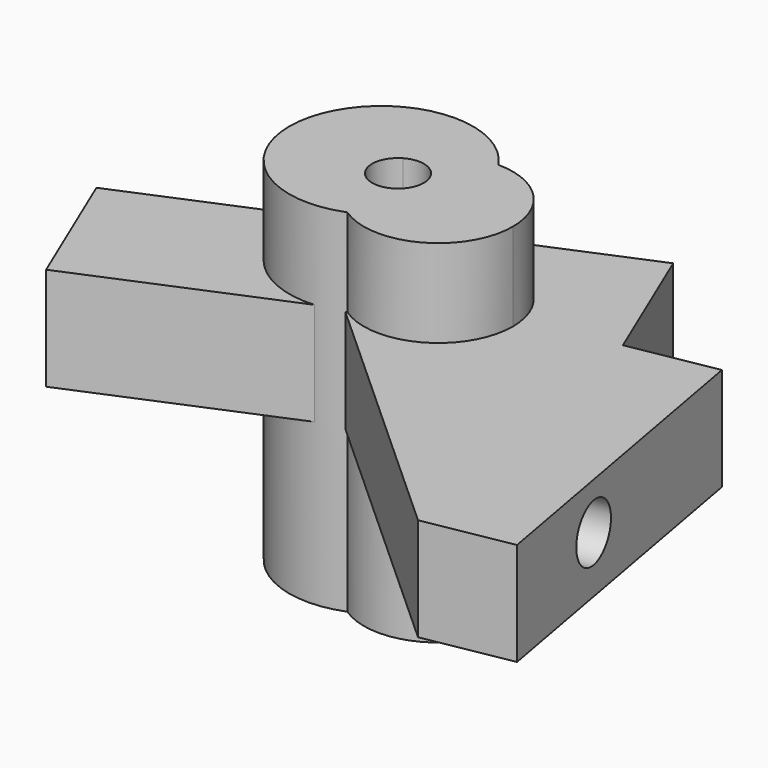
from build123d import *

# Parameters (mm, degrees)
F1_DEPTH  = 29.2991027236
F2_DEPTH  = 40.9627631307
F3_DEPTH  = 68.8303261995
F4_T      = -2.54
F5_W      = 95.6771153452
F5_H      = 29.2991027236
F5_R      = 8.1039957671
F6_DEPTH  = 25
F7_R      = 8.5249443269
F8_DEPTH  = 25
F10_DEPTH = 100


with BuildPart() as f1:
    # F0 (on Top) → F1 (new body)
    with BuildSketch(Plane.XY):
        Polygon((17.0515403152, -60.0674971938), (0, 34.0778976679), (-59.2823252082, 9.1290585697), align=None)
    extrude(amount=-F1_DEPTH)

    # F2 (add): a face of the model
    f2_faces = [f1.faces().sort_by_distance(p)[0] for p in [
        (-29.6411626041, 21.6034781188, -14.6495513618),
    ]]
    extrude(f2_faces, amount=F2_DEPTH)

    # F3 (add): a face of the model
    f3_faces = [f1.faces().sort_by_distance(p)[0] for p in [
        (-67.2269849041, 28.0068066647, -14.6495513618),
    ]]
    extrude(f3_faces, amount=F3_DEPTH)

    # F4
    f4_openings = [f1.faces().sort_by_distance(p)[0] for p in [
        (-130.668094, 1.307752, -14.649551),
    ]]
    offset(amount=F4_T, openings=f4_openings, kind=Kind.INTERSECTION)

    # F5 (on face) → F6 (join)
    with BuildSketch(Plane(origin=(5.9761205036, 1.0823902735, 0), x_dir=(-0.1782196323, 0.983990733, 0), z_dir=(0.983990733, 0.1782196323, 0))):
        with Locations((-14.3062221666, -14.6495513618)):
            Rectangle(F5_W, F5_H)
        with Locations((-26.3812504709, -13.2899768651)):
            Circle(F5_R, mode=Mode.SUBTRACT)
    extrude(amount=F6_DEPTH)

    # F7 (on face) → F8 (join)
    with BuildSketch(Plane.XY):
        with Locations((-45.2117063105, 26.2168720365)):
            Circle(F7_R)
    extrude(amount=F8_DEPTH)

    # F9 (on face) → F10 (join)
    with BuildSketch(Plane.XY.offset(25)):
        with BuildLine():
            ThreePointArc((-64.3323721087, 36.3062107036), (-56.9744432535, 36.3138053878), (-53.293284687, 29.9429148436))
            ThreePointArc((-53.293284687, 29.9429148436), (-58.8077923617, 22.8230389836), (-67.0805371507, 26.3817073875))
            ThreePointArc((-67.0805371507, 26.3817073875), (-64.7228255119, 16.131982496), (-57.7273939024, 8.2783463241))
            ThreePointArc((-57.7273939024, 8.2783463241), (-50.3687668703, 12.7783108002), (-44.8766799987, 19.4293298107))
            ThreePointArc((-44.8766799987, 19.4293298107), (-51.7516634602, 28.0640137679), (-41.3753042644, 31.8262384388))
            ThreePointArc((-41.3753042644, 31.8262384388), (-41.3686098103, 32.1676324461), (-41.3663781986, 32.5090847909))
            ThreePointArc((-41.3663781986, 32.5090847909), (-42.4957862059, 40.1072719094), (-45.7863536257, 47.0484660424))
            ThreePointArc((-45.7863536257, 47.0484660424), (-56.5176025345, 44.194923272), (-64.3323721087, 36.3062107036))
        make_face()
        with BuildLine():
            ThreePointArc((-67.0805371507, 26.3817073875), (-67.7337027998, 31.9053183776), (-64.3323721087, 36.3062107036))
            ThreePointArc((-64.3323721087, 36.3062107036), (-56.5176025345, 44.194923272), (-45.7863536257, 47.0484660424))
            ThreePointArc((-45.7863536257, 47.0484660424), (-92.4558918977, 40.198539381), (-57.7273939024, 8.2783463241))
            ThreePointArc((-57.7273939024, 8.2783463241), (-64.7228255119, 16.131982496), (-67.0805371507, 26.3817073875))
        make_face()
        with BuildLine():
            ThreePointArc((-24.706517752, 25.8585140109), (-30.874012332, 40.8031915547), (-45.7863536257, 47.0484660424))
            ThreePointArc((-45.7863536257, 47.0484660424), (-42.4957862059, 40.1072719094), (-41.3663781986, 32.5090847909))
            ThreePointArc((-41.3663781986, 32.5090847909), (-41.3686098103, 32.1676324461), (-41.3753042644, 31.8262384388))
            ThreePointArc((-41.3753042644, 31.8262384388), (-39.2011150693, 29.3879546634), (-38.4159008325, 26.2168720365))
            ThreePointArc((-38.4159008325, 26.2168720365), (-40.2893214342, 21.5314585835), (-44.8766799987, 19.4293298107))
            ThreePointArc((-44.8766799987, 19.4293298107), (-50.3687668703, 12.7783108002), (-57.7273939024, 8.2783463241))
            ThreePointArc((-57.7273939024, 8.2783463241), (-35.9385388446, 7.153965382), (-24.706517752, 25.8585140109))
        make_face()
    extrude(amount=-F10_DEPTH)


solid = f1.part
